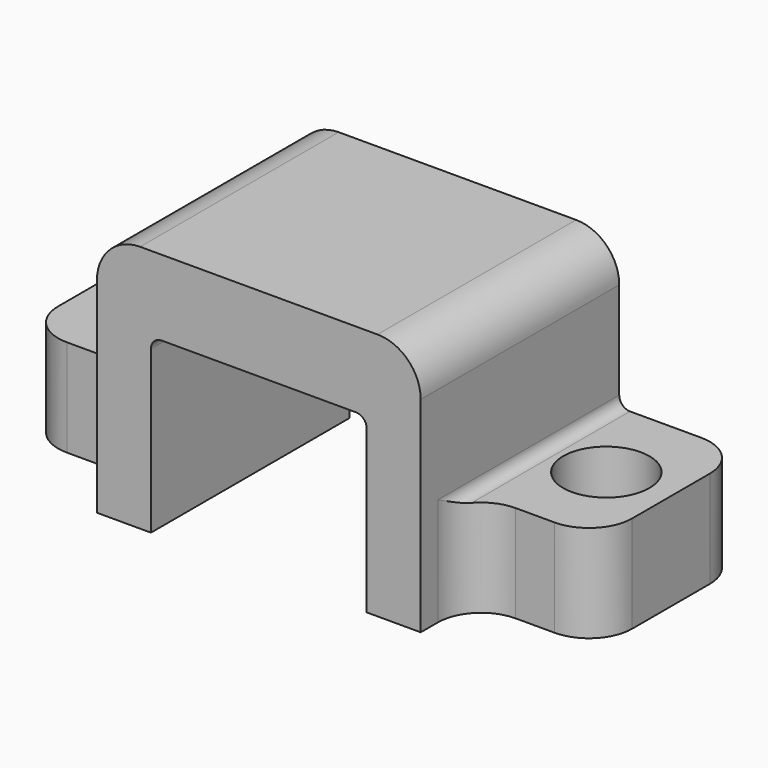
from build123d import *

# Parameters (mm, degrees)
F0_W     = 26.6
F0_H     = 11.5
F1_DEPTH = 11.5
F2_W     = 5.8
F2_H     = 7
F2_W_2   = 10
F2_H_2   = 8
F3_DEPTH = 11.501
F4_W     = 5.8
F4_H     = 3
F4_R     = 2
F5_DEPTH = 4.501
F6_W     = 5.8
F6_H     = 3
F6_R     = 2
F7_DEPTH = 4.501
F8_R     = 2
F9_R     = 0.5


with BuildPart() as f1:
    # F0 (on Top) → F1 (new body)
    with BuildSketch(Plane.XY):
        Rectangle(F0_W, F0_H)
    extrude(amount=F1_DEPTH)

    # F2 (on face) → F3 (cut, through all)
    with BuildSketch(Plane.XZ.offset(5.75)):
        with Locations((-10.4, 8)):
            Rectangle(F2_W, F2_H)
        with Locations((10.4, 8)):
            Rectangle(F2_W, F2_H)
        with Locations((0, 4)):
            Rectangle(F2_W_2, F2_H_2)
    extrude(amount=-F3_DEPTH, mode=Mode.SUBTRACT)

    # F4 (on face) → F5 (cut, through all)
    with BuildSketch(Plane.XY.offset(4.5)):
        with Locations((-10.4, -4.25)):
            Rectangle(F4_W, F4_H)
        with Locations((-10.4, 1.5)):
            Circle(F4_R)
    extrude(amount=-F5_DEPTH, mode=Mode.SUBTRACT)

    # F6 (on face) → F7 (cut, through all)
    with BuildSketch(Plane.XY.offset(4.5)):
        with Locations((10.4, -4.25)):
            Rectangle(F6_W, F6_H)
        with Locations((10.3, 1.5)):
            Circle(F6_R)
    extrude(amount=-F7_DEPTH, mode=Mode.SUBTRACT)

    # F8
    f8_edges = [f1.edges().sort_by_distance(p)[0] for p in [
        (-7.5, 0, 11.5),
        (7.5, 0, 11.5),
        (-13.3, -2.75, 2.25),
        (-13.3, 5.75, 2.25),
        (-7.5, -2.75, 2.25),
        (13.3, 5.75, 2.25),
        (13.3, -2.75, 2.25),
        (7.5, -2.75, 2.25),
    ]]
    fillet(f8_edges, radius=F8_R)

    # F9
    f9_edges = [f1.edges().sort_by_distance(p)[0] for p in [
        (-7.5, 1.5, 4.5),
        (7.5, 1.5, 4.5),
        (-5, 0, 8),
        (5, 0, 8),
    ]]
    fillet(f9_edges, radius=F9_R)


solid = f1.part
